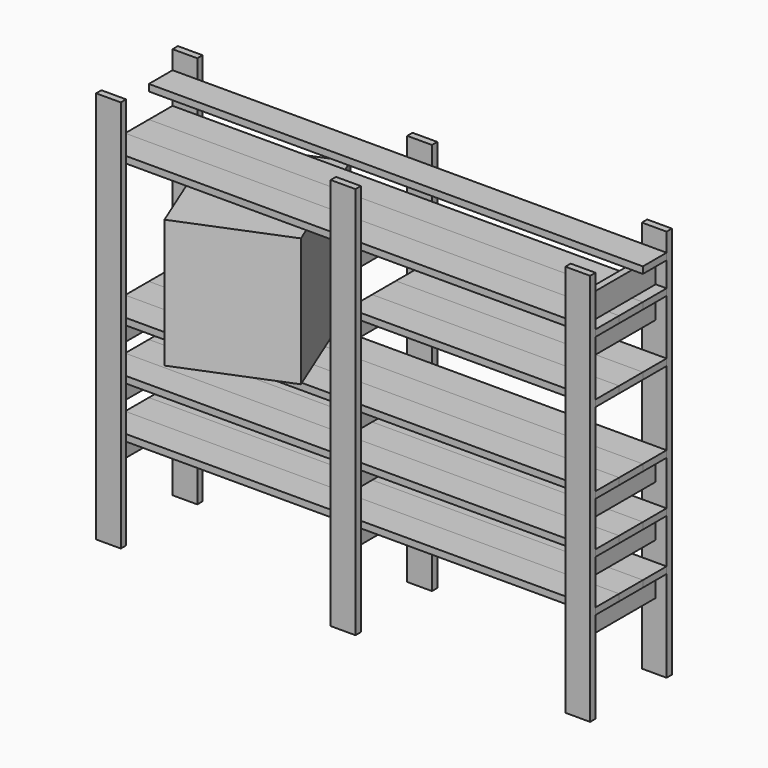
from build123d import *

# Parameters (mm, degrees)
F0_W      = 100
F0_H      = 27
F1_DEPTH  = 1590
F2_DEPTH  = 1590
F3_W      = 120
F3_H      = 27
F4_DEPTH  = 2000
F5_DEPTH  = 2000
F6_DEPTH  = 2000
F8_DEPTH  = 520
F9_W      = 120
F9_H      = 27
F10_DEPTH = 1000
F11_DEPTH = 1000
F12_DEPTH = 2000
F13_W     = 27
F13_H     = 100
F14_DEPTH = 360


with BuildPart() as f1:
    # F0 (on Top) → F1 (new body)
    with BuildSketch(Plane.XY):
        with Locations((-77.382376, 346.78042)):
            Rectangle(F0_W, F0_H)
    extrude(amount=F1_DEPTH)

    # F0 (on Top) → F2 (join)
    with BuildSketch(Plane.XY):
        with Locations((-77.382376, 346.78042)):
            Rectangle(F0_W, F0_H)
        with Locations((-77.382376, -40.21958)):
            Rectangle(F0_W, F0_H)
        with Locations((872.617624, 346.78042)):
            Rectangle(F0_W, F0_H)
        with Locations((872.617624, -40.21958)):
            Rectangle(F0_W, F0_H)
        with Locations((1822.617624, 346.78042)):
            Rectangle(F0_W, F0_H)
        with Locations((1822.617624, -40.21958)):
            Rectangle(F0_W, F0_H)
    extrude(amount=F2_DEPTH)


with BuildPart() as f4:
    # F3 (on face) → F4 (new body)
    with BuildSketch(Plane(origin=(-127.382376, 0, 0), x_dir=(0, -1, 0), z_dir=(-1, 0, 0))):
        with Locations((-273.28042, 383.5)):
            Rectangle(F3_W, F3_H)
        with Locations((-33.28042, 383.5)):
            Rectangle(F3_W, F3_H)
    extrude(amount=-F4_DEPTH)


with BuildPart() as f5:
    # F3 (on face) → F5 (new body)
    with BuildSketch(Plane(origin=(-127.382376, 0, 0), x_dir=(0, -1, 0), z_dir=(-1, 0, 0))):
        with Locations((-273.28042, 1374.5)):
            Rectangle(F3_W, F3_H)
        with Locations((-33.28042, 1374.5)):
            Rectangle(F3_W, F3_H)
        with Locations((-33.28042, 797.5)):
            Rectangle(F3_W, F3_H)
        with Locations((-273.28042, 797.5)):
            Rectangle(F3_W, F3_H)
        with Locations((-273.28042, 590.5)):
            Rectangle(F3_W, F3_H)
        with Locations((-33.28042, 590.5)):
            Rectangle(F3_W, F3_H)
    extrude(amount=-F5_DEPTH)


with BuildPart() as f6:
    # F3 (on face) → F6 (new body)
    with BuildSketch(Plane(origin=(-127.382376, 0, 0), x_dir=(0, -1, 0), z_dir=(-1, 0, 0))):
        with Locations((-153.28042, 1374.5)):
            Rectangle(F3_W, F3_H)
        with Locations((-153.28042, 797.5)):
            Rectangle(F3_W, F3_H)
        with Locations((-153.28042, 590.5)):
            Rectangle(F3_W, F3_H)
        with Locations((-153.28042, 383.5)):
            Rectangle(F3_W, F3_H)
    extrude(amount=-F6_DEPTH)


with BuildPart() as f8:
    # F7 (on face) → F8 (new body)
    with BuildSketch(Plane.XY.offset(811)):
        Polygon((481.037676, 473.115087), (64.105951, 303.799002), (271.047832, -205.784218), (687.979557, -36.468133), align=None)
    extrude(amount=F8_DEPTH)


with BuildPart() as f10:
    # F9 (on face) → F10 (new body)
    with BuildSketch(Plane.YZ.offset(1872.617624)):
        with Locations((33.28042, 1124.5)):
            Rectangle(F9_W, F9_H)
        with Locations((273.28042, 1124.5)):
            Rectangle(F9_W, F9_H)
    extrude(amount=-F10_DEPTH)


with BuildPart() as f11:
    # F9 (on face) → F11 (new body)
    with BuildSketch(Plane.YZ.offset(1872.617624)):
        with Locations((153.28042, 1124.5)):
            Rectangle(F9_W, F9_H)
    extrude(amount=-F11_DEPTH)


with BuildPart() as f12:
    # F3 (on face) → F12 (new body)
    with BuildSketch(Plane(origin=(-127.382376, 0, 0), x_dir=(0, -1, 0), z_dir=(-1, 0, 0))):
        with Locations((-273.28042, 1501.5)):
            Rectangle(F3_W, F3_H)
    extrude(amount=-F12_DEPTH)


with BuildPart() as f14:
    # F13 (on face) → F14 (new body, through all)
    with BuildSketch(Plane.XZ.offset(-333.28042)):
        with Locations((1815.176492, 734)):
            Rectangle(F13_W, F13_H)
        with Locations((1815.176492, 527)):
            Rectangle(F13_W, F13_H)
        with Locations((1815.176492, 320)):
            Rectangle(F13_W, F13_H)
        with Locations((1815.176492, 1311)):
            Rectangle(F13_W, F13_H)
        with Locations((859.117624, 734)):
            Rectangle(F13_W, F13_H)
        with Locations((859.117624, 527)):
            Rectangle(F13_W, F13_H)
        with Locations((859.117624, 320)):
            Rectangle(F13_W, F13_H)
        with Locations((859.117624, 1061)):
            Rectangle(F13_W, F13_H)
        with Locations((859.117624, 1311)):
            Rectangle(F13_W, F13_H)
        with Locations((-92.231753, 320)):
            Rectangle(F13_W, F13_H)
        with Locations((-92.231753, 527)):
            Rectangle(F13_W, F13_H)
        with Locations((-92.231753, 734)):
            Rectangle(F13_W, F13_H)
        with Locations((1815.176492, 1438)):
            Rectangle(F13_W, F13_H)
    extrude(amount=F14_DEPTH)


solid = Compound([f1.part, f4.part, f5.part, f6.part, f8.part, f10.part, f11.part, f12.part, f14.part])
